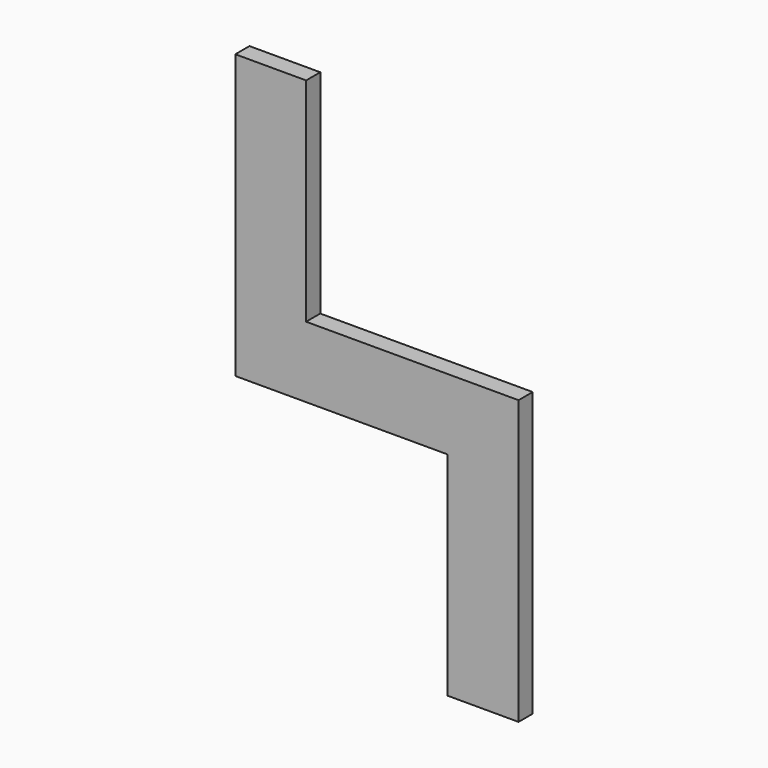
from build123d import *

# Parameters (mm, degrees)
F0_W     = 12.7
F0_H     = 38.1
F0_H_2   = 12.7
F0_W_2   = 25.4
F1_DEPTH = 3.175


with BuildPart() as f1:
    # F0 (on Front) → F1 (new body)
    with BuildSketch(Plane.XZ):
        with Locations((-44.45, 31.75)):
            Rectangle(F0_W, F0_H)
        with Locations((-44.45, 6.35)):
            Rectangle(F0_W, F0_H_2)
        with Locations((-25.4, 6.35)):
            Rectangle(F0_W_2, F0_H_2)
        with Locations((-6.35, 6.35)):
            Rectangle(F0_W, F0_H_2)
        with Locations((-6.35, -19.05)):
            Rectangle(F0_W, F0_H)
    extrude(amount=F1_DEPTH)


solid = f1.part
